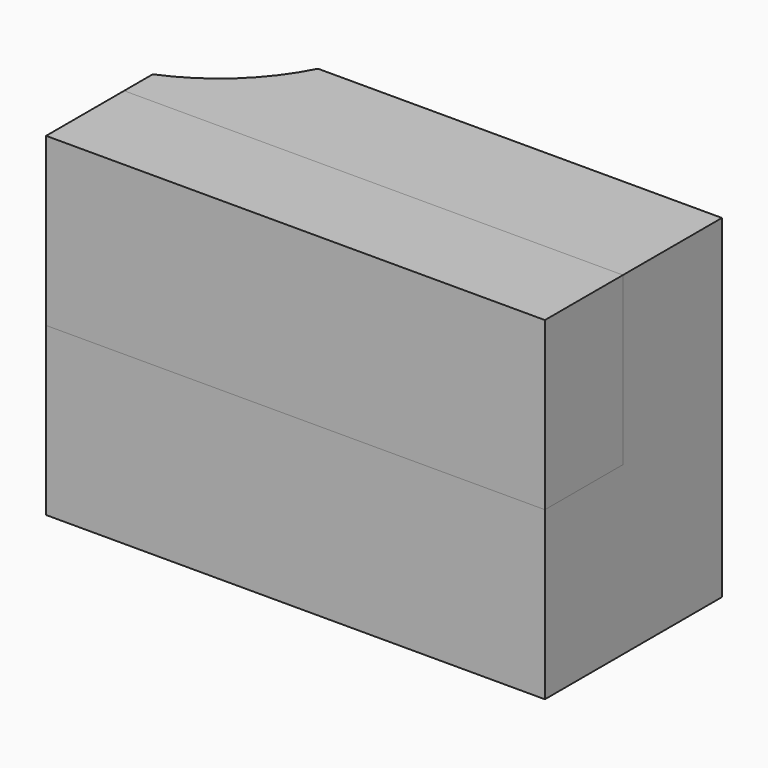
from build123d import *

# Parameters (mm, degrees)
F0_W          = 74.71244
F0_H          = 14.6099
F1_DEPTH      = 25
F1_DEPTH_BACK = 25
F2_DEPTH      = 25


with BuildPart() as f1:
    # F0 (on Top) → F1 (new body, two sides)
    with BuildSketch(Plane.XY) as f1_sk:
        with BuildLine():
            Line((-74.71244, 14.6099), (0, 14.6099))
            Line((0, 14.6099), (0, 33.139534))
            Line((0, 33.139534), (-60.496331, 33.139534))
            ThreePointArc((-60.496331, 33.139534), (-66.427623, 25.2817), (-74.71244, 19.963091))
            Line((-74.71244, 19.963091), (-74.71244, 14.6099))
        make_face()
        with Locations((-37.35622, 7.30495)):
            Rectangle(F0_W, F0_H)
    extrude(amount=F1_DEPTH)
    extrude(f1_sk.sketch, amount=-F1_DEPTH_BACK)


with BuildPart() as f2:
    # F0 (on Top) → F2 (new body)
    with BuildSketch(Plane.XY):
        with Locations((-37.35622, 7.30495)):
            Rectangle(F0_W, F0_H)
    extrude(amount=F2_DEPTH)


solid = Compound([f1.part, f2.part])
